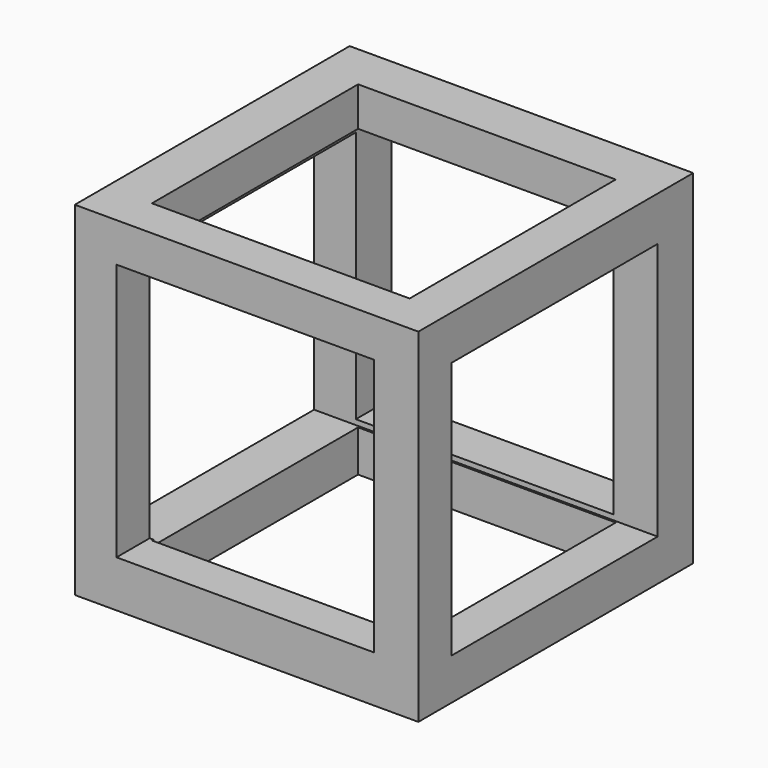
from build123d import *

# Parameters (mm, degrees)
F0_W     = 50.8
F0_H     = 50.8
F1_DEPTH = 50.8
F2_W     = 38.1
F2_H     = 38.1
F3_DEPTH = 50.8
F4_W     = 38.1
F4_H     = 38.1
F5_DEPTH = 50.8
F6_W     = 38.1
F6_H     = 38.1
F7_DEPTH = 50.8


with BuildPart() as f1:
    # F0 (on Right) → F1 (new body)
    with BuildSketch(Plane.YZ):
        with Locations((-25.4, -25.4)):
            Rectangle(F0_W, F0_H)
    extrude(amount=F1_DEPTH)

    # F2 (on face) → F3 (cut)
    with BuildSketch(Plane.YZ.offset(50.8)):
        with Locations((-25.621607, -25.606393)):
            Rectangle(F2_W, F2_H)
    extrude(amount=-F3_DEPTH, mode=Mode.SUBTRACT)

    # F4 (on face) → F5 (cut)
    with BuildSketch(Plane.XZ.offset(50.8)):
        with Locations((25.222066, -24.840273)):
            Rectangle(F4_W, F4_H)
    extrude(amount=-F5_DEPTH, mode=Mode.SUBTRACT)

    # F6 (on face) → F7 (cut)
    with BuildSketch(Plane.XY):
        with Locations((25.782557, -25.907018)):
            Rectangle(F6_W, F6_H)
    extrude(amount=-F7_DEPTH, mode=Mode.SUBTRACT)


solid = f1.part
